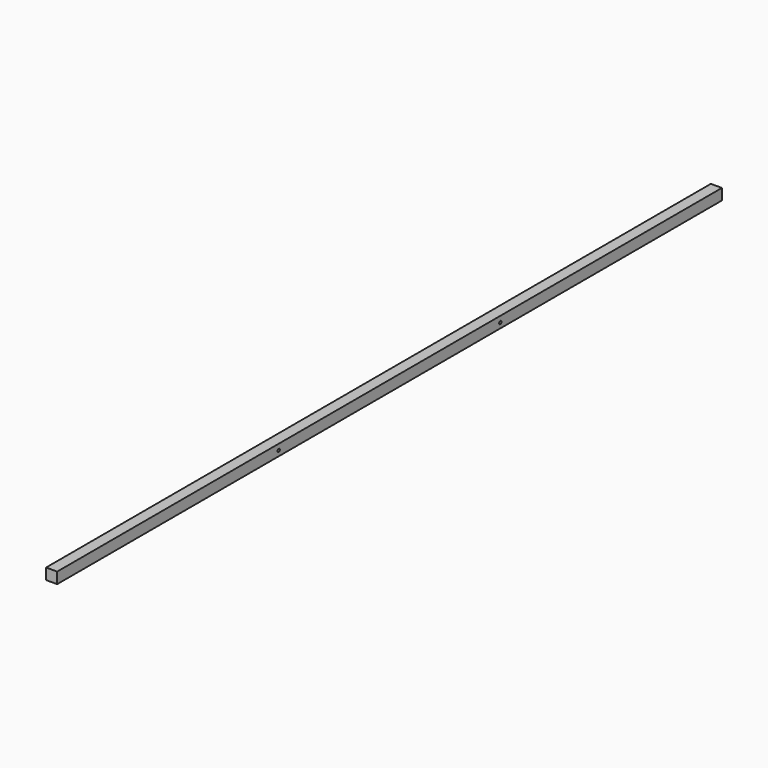
from build123d import *

# Parameters (mm, degrees)
F0_W     = 50.8
F0_H     = 50.8
F1_DEPTH = 3810
F3_D     = 13.49248


with BuildPart() as f1:
    # F0 (on Front) → F1 (new body)
    with BuildSketch(Plane.XZ):
        with Locations((-0.4218453541, 1.7320510649)):
            Rectangle(F0_W, F0_H)
    extrude(amount=F1_DEPTH)

    # F3 (through all)
    with Locations(Plane.YZ.offset(24.9781546459)):
        with Locations((-1270, 0), (-2540, 0)):
            Hole(F3_D / 2)


solid = f1.part
